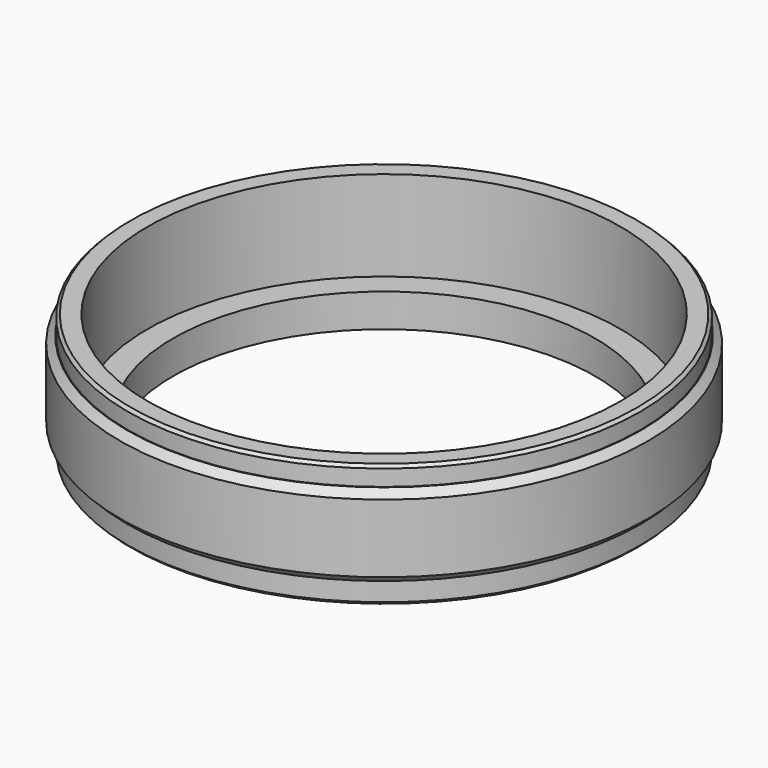
from build123d import *

# Parameters (mm, degrees)
F0_R     = 27
F0_R_2   = 24.925
F1_DEPTH = 13
F0_R_3   = 22.25
F2_DEPTH = 3.5
F3_START = 2.3
F0_R_4   = 27.825
F3_DEPTH = 8.7
F4_SIZE  = 0.3
F5_SIZE  = 0.75


with BuildPart() as f1:
    # F0 (on Top) → F1 (new body)
    with BuildSketch(Plane.XY):
        Circle(F0_R)
        Circle(F0_R_2, mode=Mode.SUBTRACT)
    extrude(amount=F1_DEPTH)

    # F0 (on Top) → F2 (join)
    with BuildSketch(Plane.XY):
        Circle(F0_R_2)
        Circle(F0_R_3, mode=Mode.SUBTRACT)
    extrude(amount=F2_DEPTH)

    # F0 (on Top) → F3 (join)
    with BuildSketch(Plane.XY.offset(F3_START)):
        Circle(F0_R_4)
        Circle(F0_R, mode=Mode.SUBTRACT)
    extrude(amount=F3_DEPTH)

    # F4
    f4_edges = [f1.edges().sort_by_distance(p)[0] for p in [
        (-27, 0, 13),
        (-27, 0, 0),
    ]]
    chamfer(f4_edges, length=F4_SIZE)

    # F5
    f5_edges = [f1.edges().sort_by_distance(p)[0] for p in [
        (27.825, 0, 6.65),
        (-27.825, 0, 2.3),
        (-27.825, 0, 11),
    ]]
    chamfer(f5_edges, length=F5_SIZE)


solid = f1.part
